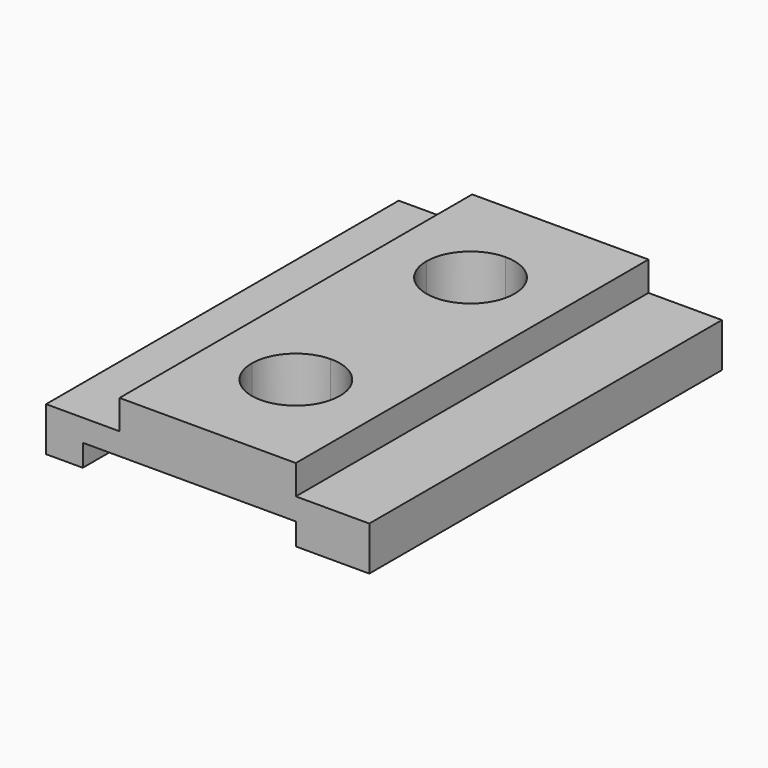
from build123d import *

# Parameters (mm, degrees)
F1_DEPTH = 150
F3_DEPTH = 50


with BuildPart() as f1:
    # F0 (on Front) → F1 (new body)
    with BuildSketch(Plane.XZ):
        Polygon((-54.393941, 0), (-54.393941, -15), (-41.893941, -15), (-41.893941, -7.5), (30.606059, -7.5), (30.606059, -15), (55.606059, -15), (55.606059, 0), (30.606059, 0), (30.606059, 10), (-29.393941, 10), (-29.393941, 0), align=None)
    extrude(amount=F1_DEPTH)

    # F2 (on face) → F3 (cut)
    with BuildSketch(Plane.XY.offset(10)):
        with BuildLine():
            ThreePointArc((15.151889, -37.562441), (10.715672, -26.973677), (0.091406, -22.623169))
            Line((0.091406, -22.623169), (0.152012, -37.623046))
            Line((0.152012, -37.623046), (15.151889, -37.562441))
        make_face()
        with BuildLine():
            ThreePointArc((15.606059, -112.5), (11.1374, -101.818668), (0.393944, -97.5015))
            Line((0.393944, -97.5015), (0.454544, -112.5))
            Line((0.454544, -112.5), (15.606059, -112.5))
        make_face()
        with BuildLine():
            Line((0.454544, -112.5), (0.393944, -97.5015))
            ThreePointArc((0.393944, -97.5015), (-10.075274, -101.968659), (-14.393941, -112.5))
            Line((-14.393941, -112.5), (0.454544, -112.5))
        make_face()
        with BuildLine():
            Line((0.152012, -37.623046), (0.091406, -22.623169))
            ThreePointArc((0.091406, -22.623169), (-10.497358, -27.059386), (-14.847866, -37.683652))
            Line((-14.847866, -37.683652), (0.152012, -37.623046))
        make_face()
        with BuildLine():
            Line((15.151889, -37.562441), (0.152012, -37.623046))
            Line((0.152012, -37.623046), (0.212617, -52.622924))
            ThreePointArc((0.212617, -52.622924), (10.780019, -48.208199), (15.152012, -37.623046))
            ThreePointArc((15.152012, -37.623046), (15.151981, -37.592744), (15.151889, -37.562441))
        make_face()
        with BuildLine():
            Line((0.212617, -52.622924), (0.152012, -37.623046))
            Line((0.152012, -37.623046), (-14.847866, -37.683652))
            ThreePointArc((-14.847866, -37.683652), (-10.411649, -48.272416), (0.212617, -52.622924))
        make_face()
        with BuildLine():
            Line((15.606059, -112.5), (0.454544, -112.5))
            Line((0.454544, -112.5), (0.515149, -127.499725))
            ThreePointArc((0.515149, -127.499725), (11.18047, -123.138695), (15.606059, -112.5))
        make_face()
        with BuildLine():
            Line((0.515149, -127.499725), (0.454544, -112.5))
            Line((0.454544, -112.5), (-14.393941, -112.5))
            ThreePointArc((-14.393941, -112.5), (-10.032636, -123.074411), (0.515149, -127.499725))
        make_face()
    extrude(amount=-F3_DEPTH, mode=Mode.SUBTRACT)


solid = f1.part
